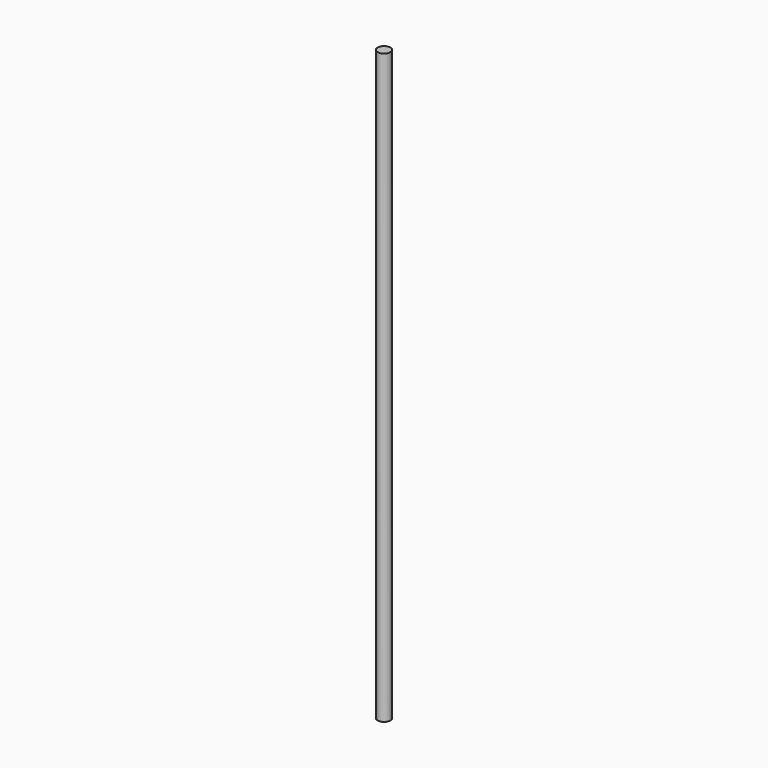
from build123d import *

# Parameters (mm, degrees)
CYLINDER_R     = 4
CYLINDER_DEPTH = 371


with BuildPart() as part:
    # Cylinder → Cylinder (new body)
    with BuildSketch(Plane.XY):
        Circle(CYLINDER_R)
    extrude(amount=CYLINDER_DEPTH)


solid = part.part
